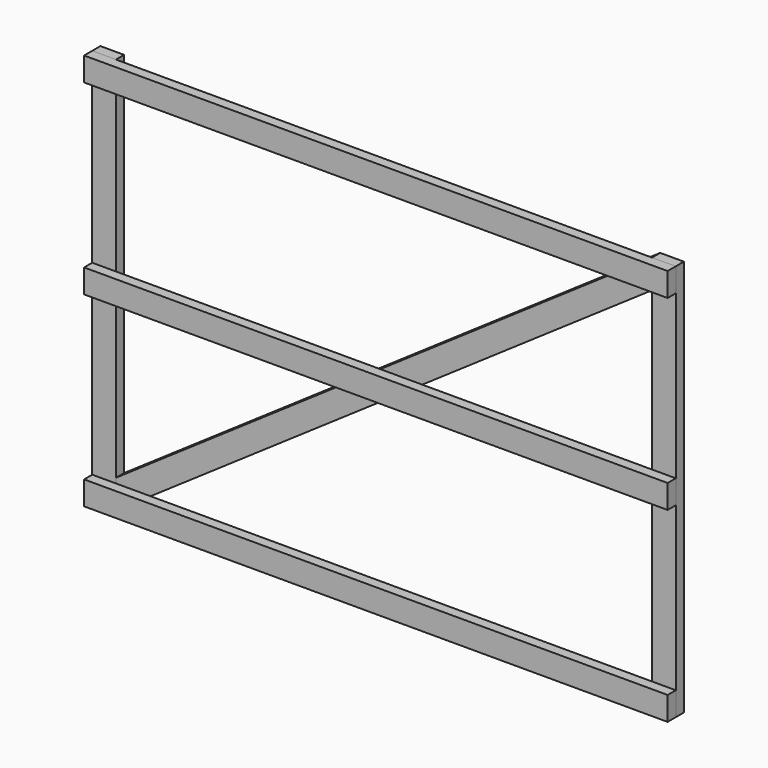
from build123d import *

# Parameters (mm, degrees)
F0_W     = 38.1
F0_H     = 88.9
F1_DEPTH = 2184.4
F2_W     = 88.9
F2_H     = 38.1
F3_DEPTH = 1485.9
F5_DEPTH = 38.1


with BuildPart() as f1:
    # F0 (on Right) → F1 (new body)
    with BuildSketch(Plane.YZ):
        with Locations((19.05, 189.002842)):
            Rectangle(F0_W, F0_H)
        with Locations((19.05, -509.497158)):
            Rectangle(F0_W, F0_H)
        with Locations((19.05, -1207.997158)):
            Rectangle(F0_W, F0_H)
    extrude(amount=F1_DEPTH)


with BuildPart() as f3:
    # F2 (on face) → F3 (new body, through all)
    with BuildSketch(Plane.XY.offset(233.452842)):
        with Locations((2139.95, 57.15)):
            Rectangle(F2_W, F2_H)
        with Locations((44.45, 57.15)):
            Rectangle(F2_W, F2_H)
    extrude(amount=-F3_DEPTH)


with BuildPart() as f5:
    # F4 (on face) → F5 (new body)
    with BuildSketch(Plane(origin=(0, 38.1, 0), x_dir=(-1, 0, 0), z_dir=(0, 1, 0))):
        Polygon((-88.9, -1144.60151), (-2095.5, 233.452842), (-2095.5, 125.607194), (-88.9, -1252.447158), align=None)
    extrude(amount=F5_DEPTH)


solid = Compound([f1.part, f3.part, f5.part])
